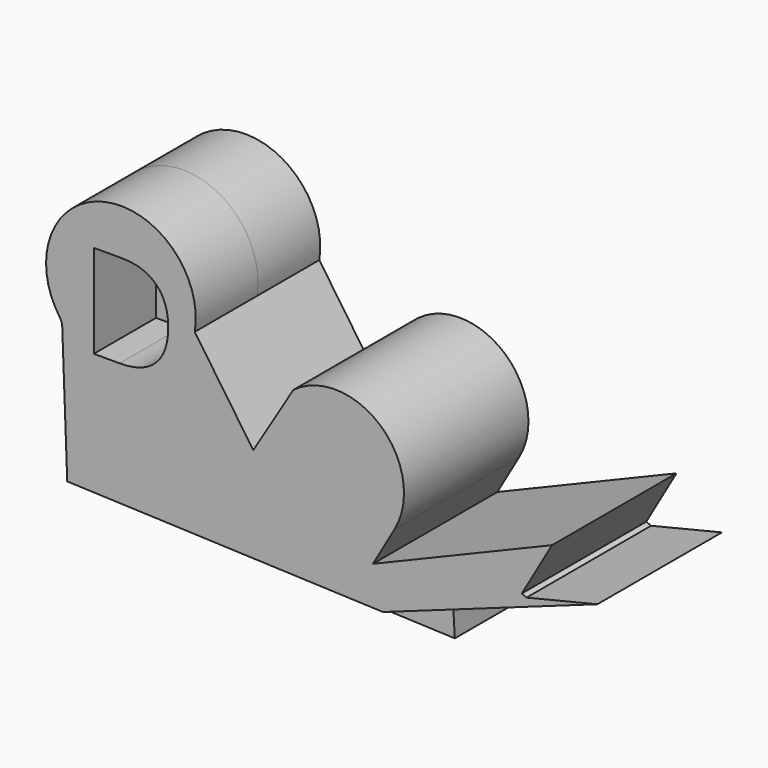
from build123d import *

# Parameters (mm, degrees)
F1_DEPTH = 25.4
F3_DEPTH = 25.4
F4_R     = 5.08
F6_DEPTH = 25.4


with BuildPart() as f1:
    # F0 (on Front) → F1 (new body)
    with BuildSketch(Plane.XZ):
        Polygon((50.3724894897, -19.9537337418), (43.2405746432, -32.324386227), (53.6602549255, -32.7301882207), (123.6672028899, -7.7317771502), (100.5261093378, -13.3468965068), (98.9843588805, -12.6695925823), (108.838506043, 4.4229039922), align=None)
        with BuildLine():
            Line((11.317721568, 0), (-7.7830348164, 27.7942810208))
            ThreePointArc((-7.7830348164, 27.7942810208), (-37.9805600242, 55.411449094), (-51.1065535247, 16.6518464684))
            Line((-51.1065535247, 16.6518464684), (-49.4236677809, -28.7155102049))
            Line((-49.4236677809, -28.7155102049), (43.2405746432, -32.324386227))
            Line((43.2405746432, -32.324386227), (50.3724894897, -19.9537337418))
            Line((50.3724894897, -19.9537337418), (57.5044043362, -7.5830812566))
            ThreePointArc((57.5044043362, -7.5830812566), (52.8655426417, 20.5599650278), (24.3599712849, 21.5511731803))
            Line((24.3599712849, 21.5511731803), (11.317721568, 0))
        make_face()
    extrude(amount=F1_DEPTH)

    # F4
    f4_edges = [f1.edges().sort_by_distance(p)[0] for p in [
        (-51.106554, -12.7, 16.651846),
    ]]
    fillet(f4_edges, radius=F4_R)

    # F5 (on face) → F6 (join)
    with BuildSketch(Plane.XZ.offset(25.4)):
        with BuildLine():
            Line((11.317721568, 0), (-7.7830348164, 27.7942810208))
            ThreePointArc((-7.7830348164, 27.7942810208), (-37.2875983405, 55.5789337589), (-51.9543250562, 17.7980745313))
            ThreePointArc((-51.9543250562, 17.7980745313), (-51.306649694, 16.5071018213), (-51.0484702296, 15.08603276))
            Line((-51.0484702296, 15.08603276), (-49.4236677809, -28.7155102049))
            Line((-49.4236677809, -28.7155102049), (53.6602549255, -32.7301882207))
            Line((53.6602549255, -32.7301882207), (123.6672028899, -7.7317771502))
            Line((123.6672028899, -7.7317771502), (100.5261093378, -13.3468965068))
            Line((100.5261093378, -13.3468965068), (98.9843588805, -12.6695925823))
            Line((98.9843588805, -12.6695925823), (108.838506043, 4.4229039922))
            Line((108.838506043, 4.4229039922), (50.3724894897, -19.9537337418))
            Line((50.3724894897, -19.9537337418), (57.5044043362, -7.5830812566))
            ThreePointArc((57.5044043362, -7.5830812566), (52.8655426417, 20.5599650278), (24.3599712849, 21.5511731803))
            Line((24.3599712849, 21.5511731803), (11.317721568, 0))
        make_face()
        with BuildLine():
            add(Edge.make_bspline(
                [(-20.3851701657, 37.291638983), (-16.4495841564, 33.3560529737), (-16.4495841564, 26.2913261831)],
                knots=[0, 0, 0, 1, 1, 1], degree=2))
            add(Edge.make_bspline(
                [(-16.4495841564, 26.2913261831), (-16.4495841564, 18.7533959943), (-20.5417938256, 14.7644912922)],
                knots=[0, 0, 0, 1, 1, 1], degree=2))
            add(Edge.make_bspline(
                [(-20.5417938256, 14.7644912922), (-24.6340034949, 10.7755865902), (-32.3185600888, 10.7755865902)],
                knots=[0, 0, 0, 1, 1, 1], degree=2))
            Line((-32.3185600888, 10.7755865902), (-40.756243218, 10.7755865902))
            Line((-40.756243218, 10.7755865902), (-40.756243218, 41.2272249923))
            Line((-40.756243218, 41.2272249923), (-31.4254719851, 41.2272249923))
            add(Edge.make_bspline(
                [(-31.4254719851, 41.2272249923), (-24.320756175, 41.2272249923), (-20.3851701657, 37.291638983)],
                knots=[0, 0, 0, 1, 1, 1], degree=2))
        make_face(mode=Mode.SUBTRACT)
    extrude(amount=F6_DEPTH)


with BuildPart() as f3:
    # F2 (on Front) → F3 (new body)
    with BuildSketch(Plane.XZ):
        Polygon((55.984955281, -35.9467826784), (-46.8695536256, -32.8190922737), (-50.7489927113, -45.372504741), (56.7951351404, -49.6126748621), align=None)
    extrude(amount=F3_DEPTH)


solid = Compound([f1.part, f3.part])
